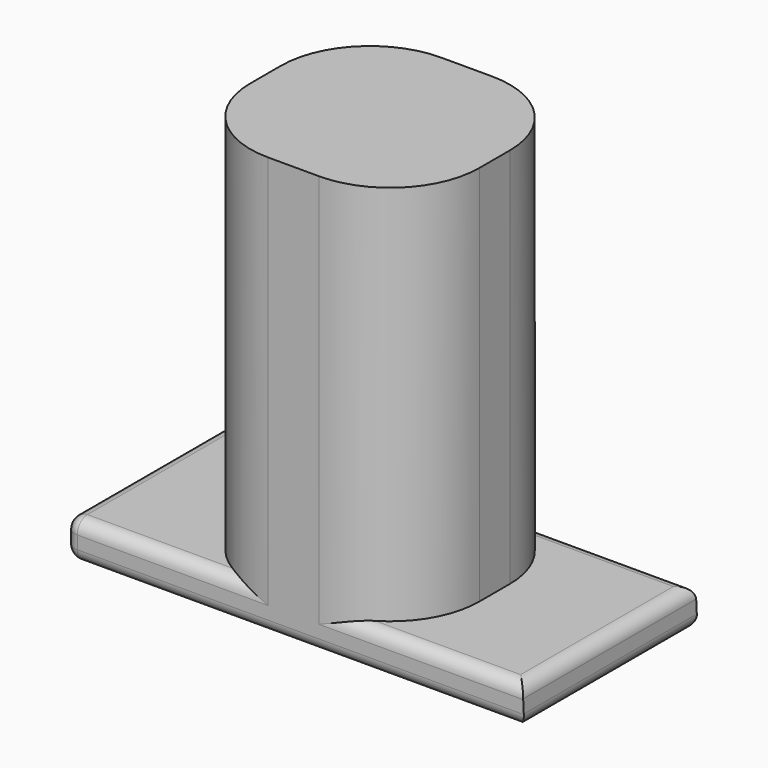
from build123d import *

# Parameters (mm, degrees)
F1_DEPTH = 21.59
F2_R     = 8.89
F3_R     = 8.89
F4_R     = 1.27
F5_R     = 1.27
F6_R     = 1.27
F7_R     = 8.093048
F8_DEPTH = 38.1


with BuildPart() as f1:
    # F0 (on Front) → F1 (new body)
    with BuildSketch(Plane.XZ):
        Polygon((-11.43, 0), (-22.86, 0), (-22.86, -3.830776), (23.048284, -3.830776), (22.86, 0), (11.43, 0), (0, 0), align=None)
        Polygon((-11.43, 38.1), (-11.43, 0), (0, 0), (11.43, 0), (11.43, 38.1), align=None)
    extrude(amount=F1_DEPTH)

    # F2
    f2_edges = [f1.edges().sort_by_distance(p)[0] for p in [
        (11.43, -21.59, 19.05),
    ]]
    fillet(f2_edges, radius=F2_R)

    # F3
    f3_edges = [f1.edges().sort_by_distance(p)[0] for p in [
        (-11.43, -21.59, 19.05),
        (11.43, 0, 19.05),
        (-11.43, 0, 19.05),
    ]]
    fillet(f3_edges, radius=F3_R)

    # F4
    f4_edges = [f1.edges().sort_by_distance(p)[0] for p in [
        (-22.86, -10.795, 0),
    ]]
    fillet(f4_edges, radius=F4_R)

    # F5
    f5_edges = [f1.edges().sort_by_distance(p)[0] for p in [
        (-22.86, -10.795, -3.830776),
    ]]
    fillet(f5_edges, radius=F5_R)

    # F6
    f6_edges = [f1.edges().sort_by_distance(p)[0] for p in [
        (-16.51, 0, 0),
        (0.729142, 0, -3.830776),
        (6.985, 0, 0),
        (22.86, -10.795, 0),
        (23.048284, -10.795, -3.830776),
        (17.145, -21.59, 0),
        (0.729142, -21.59, -3.830776),
        (-16.51, -21.59, 0),
    ]]
    fillet(f6_edges, radius=F6_R)

    # F7 (on face) → F8 (cut)
    with BuildSketch(Plane(origin=(0, 0, -3.830776), x_dir=(1, 0, 0), z_dir=(0, 0, -1))):
        with Locations((0, 11.323408)):
            Circle(F7_R)
    extrude(amount=-F8_DEPTH, mode=Mode.SUBTRACT)


solid = f1.part
